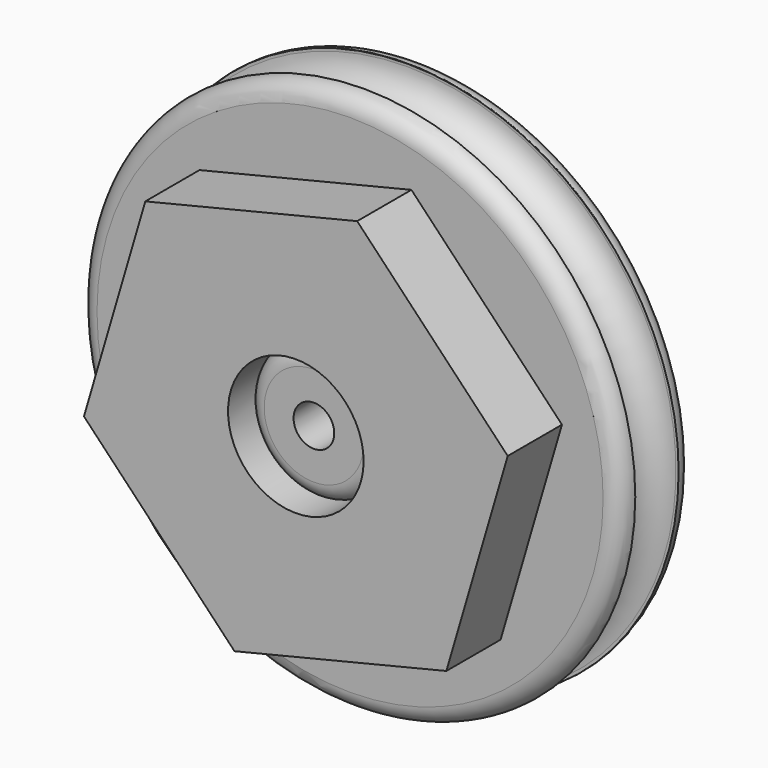
from build123d import *

# Parameters (mm, degrees)
F0_R      = 76.2
F1_DEPTH  = 25.4
F2_R      = 19.05
F3_DEPTH  = 12.7
F4_R      = 5.08
F5_R      = 5.08
F6_R      = 5.715
F7_DEPTH  = 129.032
F8_R      = 7.6567802861
F10_R     = 19.05
F11_DEPTH = 19.05


with BuildPart() as f1:
    # F0 (on Front) → F1 (new body)
    with BuildSketch(Plane.XZ):
        Circle(F0_R)
    extrude(amount=F1_DEPTH)

    # F2 (on face) → F3 (join)
    with BuildSketch(Plane.XZ.offset(25.4)):
        Circle(F2_R)
    extrude(amount=F3_DEPTH)

    # F4
    f4_edges = [f1.edges().sort_by_distance(p)[0] for p in [
        (-19.05, -38.1, 0),
    ]]
    fillet(f4_edges, radius=F4_R)

    # F5
    f5_edges = [f1.edges().sort_by_distance(p)[0] for p in [
        (76.2, -12.7, 0),
        (-76.2, 0, 0),
        (-76.2, -25.4, 0),
    ]]
    fillet(f5_edges, radius=F5_R)

    # F6 (on face) → F7 (cut)
    with BuildSketch(Plane.XZ.offset(38.1)):
        Circle(F6_R)
    extrude(amount=-F7_DEPTH, mode=Mode.SUBTRACT)

    # F8 (on Right) → F9 (revolve, cut)
    with BuildSketch(Plane.YZ):
        with Locations((-12.8249183763, 75.4192602588)):
            Circle(F8_R)
    revolve(axis=Axis((0, -25.4, 0), (0, -1, 0)), mode=Mode.SUBTRACT)

    # F10 (on face) → F11 (join)
    with BuildSketch(Plane.XZ.offset(25.4)):
        Polygon((42.3081155457, -44.3374080683), (59.551379498, 14.4711988147), (17.2432639523, 58.808606883), (-42.3081155457, 44.3374080683), (-59.551379498, -14.4711988147), (-17.2432639523, -58.808606883), align=None)
        Circle(F10_R, mode=Mode.SUBTRACT)
    extrude(amount=F11_DEPTH)


solid = f1.part
